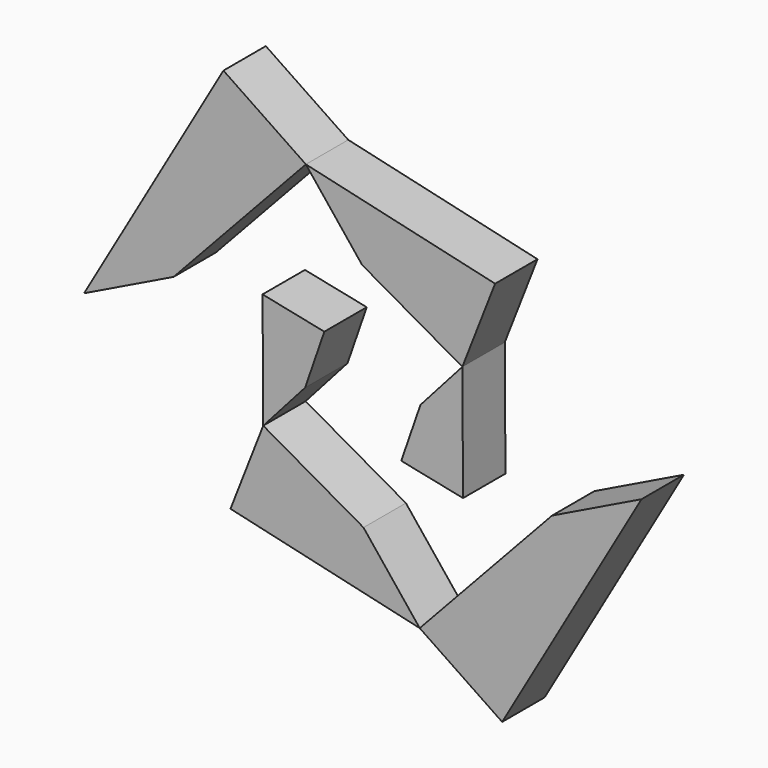
from build123d import *

# Parameters (mm, degrees)
F1_DEPTH = 6.35


with BuildPart() as f1:
    # F0 (on Front) → F1 (new body, symmetric)
    with BuildSketch(Plane.XZ):
        Polygon((23.851981, 13.965962), (31.698028, 34.051843), (-13.640747, 44.477219), (-0.168887, 27.639403), align=None)
        Polygon((9.214777, -10.625152), (24.020868, -13.673441), (23.851981, 13.965962), (13.80904, 2.667655), align=None)
        Polygon((-24.020868, 13.673441), (-23.851981, -13.965962), (-13.80904, -2.667655), (-9.214777, 10.625152), align=None)
        Polygon((-31.698028, -34.051843), (13.640747, -44.477219), (0.168887, -27.639403), (-23.851981, -13.965962), align=None)
        Polygon((-13.640747, 44.477219), (-33.389979, 57.83314), (-66.779958, 0), (-45.338775, 10.425376), align=None)
        Polygon((33.389979, -57.83314), (66.779958, 0), (45.338775, -10.425376), (13.640747, -44.477219), align=None)
    extrude(amount=F1_DEPTH, both=True)


solid = f1.part
